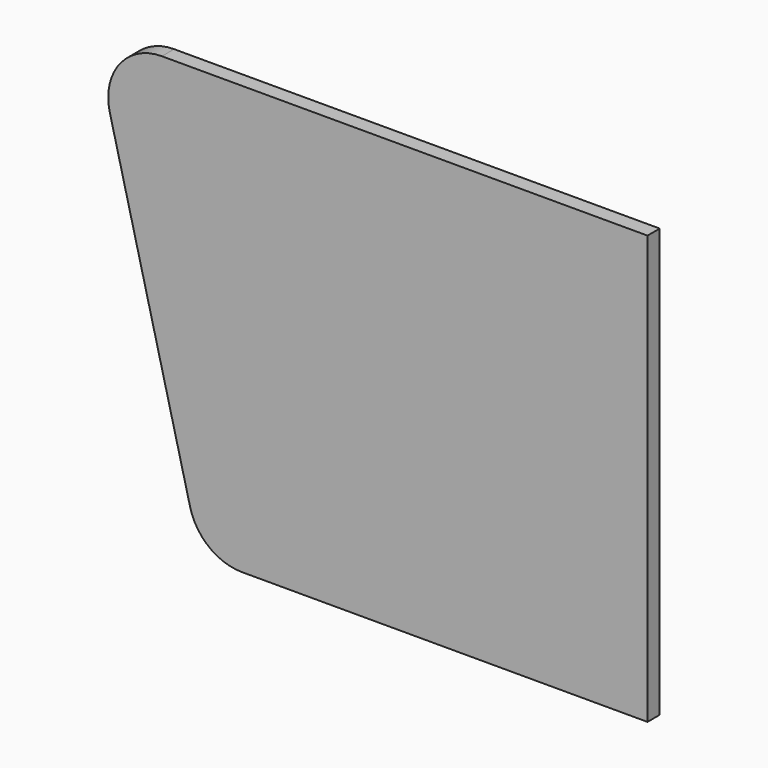
from build123d import *

# Parameters (mm, degrees)
F1_DEPTH = 20


with BuildPart() as f1:
    # F0 (on Front) → F1 (new body)
    with BuildSketch(Plane.XZ):
        with BuildLine():
            Line((0, 579.5), (-634.089735, 579.5))
            ThreePointArc((-634.089735, 579.5), (-689.264116, 552.578855), (-701.99971, 492.522506))
            Line((-701.99971, 492.522506), (-597.24971, 73.522506))
            ThreePointArc((-597.24971, 73.522506), (-572.41859, 35.325619), (-529.339735, 20.5))
            Line((-529.339735, 20.5), (0, 20.5))
            Line((0, 20.5), (0, 579.5))
        make_face()
    extrude(amount=F1_DEPTH)


solid = f1.part
